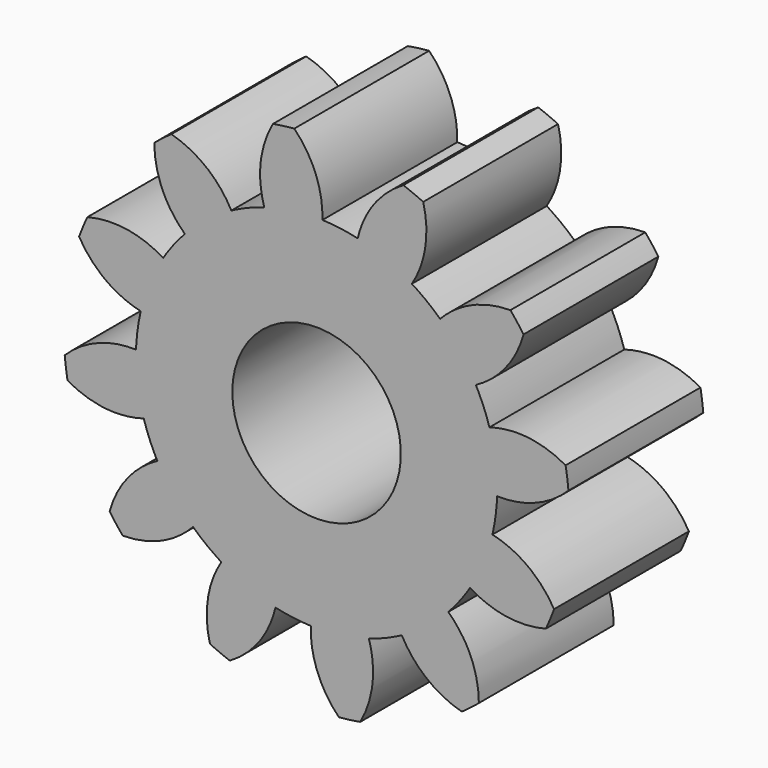
from build123d import *

# Parameters (mm, degrees)
F2_DEPTH = 12.7
F3_COUNT = 12
F3_ANGLE = 330
F5_D     = 25.4


with BuildPart() as f2:
    # F1 (on Front) → F2 (new body, symmetric)
    with BuildSketch(Plane.XZ):
        with BuildLine():
            Line((0, 27.2142857143), (0, 32.6571428571))
            Line((0, 32.6571428571), (-4.1027982168, 31.163846429))
            Line((-4.1027982168, 31.163846429), (-3.5521770883, 26.9814637274))
            ThreePointArc((-3.5521770883, 26.9814637274), (-1.7798994455, 27.1560178396), (0, 27.2142857143))
        make_face()
        with BuildLine():
            Line((-3.5521770883, 26.9814637274), (-4.1027982168, 31.163846429))
            Line((-4.1027982168, 31.163846429), (-8.4908538679, 29.5667247857))
            ThreePointArc((-8.4908538679, 29.5667247857), (-8.2952422965, 27.7884140488), (-7.8836733992, 26.0473614916))
            ThreePointArc((-7.8836733992, 26.0473614916), (-5.7369683492, 26.6027167992), (-3.5521770883, 26.9814637274))
        make_face()
        with BuildLine():
            Line((-4.1027982168, 31.163846429), (-4.2626125059, 32.3777564729))
            ThreePointArc((-4.2626125059, 32.3777564729), (-6.3710925161, 32.0296450143), (-8.4522905301, 31.5443776985))
            ThreePointArc((-8.4522905301, 31.5443776985), (-8.5050911091, 30.5562048457), (-8.4908538679, 29.5667247857))
            Line((-8.4908538679, 29.5667247857), (-4.1027982168, 31.163846429))
        make_face()
        with BuildLine():
            ThreePointArc((-8.4522905301, 31.5443776985), (-6.3710925161, 32.0296450143), (-4.2626125059, 32.3777564729))
            Line((-4.2626125059, 32.3777564729), (-4.2993944212, 32.6571428571))
            Line((-4.2993944212, 32.6571428571), (-8.3117038653, 32.6571428571))
            ThreePointArc((-8.3117038653, 32.6571428571), (-8.3926831774, 32.1021103437), (-8.4522905301, 31.5443776985))
        make_face()
        with BuildLine():
            Line((-4.1027982168, 31.163846429), (0, 32.6571428571))
            ThreePointArc((0, 32.6571428571), (-2.1358793346, 32.5872214075), (-4.2626125059, 32.3777564729))
            Line((-4.2626125059, 32.3777564729), (-4.1027982168, 31.163846429))
        make_face()
        with BuildLine():
            ThreePointArc((-4.2626125059, 32.3777564729), (-2.1358793346, 32.5872214075), (0, 32.6571428571))
            Line((0, 32.6571428571), (-4.2993944212, 32.6571428571))
            Line((-4.2993944212, 32.6571428571), (-4.2626125059, 32.3777564729))
        make_face()
        with BuildLine():
            ThreePointArc((0, 32.6571428571), (-1.3922286837, 35.486786515), (-3.3594239194, 37.9516043262))
            ThreePointArc((-3.3594239194, 37.9516043262), (-4.1671816864, 37.8714219009), (-4.9730479236, 37.7740492183))
            Line((-4.9730479236, 37.7740492183), (-4.2993944212, 32.6571428571))
            Line((-4.2993944212, 32.6571428571), (0, 32.6571428571))
        make_face()
        with BuildLine():
            Line((-4.2993944212, 32.6571428571), (-4.9730479236, 37.7740492183))
            ThreePointArc((-4.9730479236, 37.7740492183), (-5.7766568393, 37.6595304772), (-6.5776436666, 37.5279176587))
            ThreePointArc((-6.5776436666, 37.5279176587), (-7.661923736, 35.1698741183), (-8.3117038653, 32.6571428571))
            Line((-8.3117038653, 32.6571428571), (-4.2993944212, 32.6571428571))
        make_face()
        with BuildLine():
            ThreePointArc((0.8734905136, 27.2002639925), (0.6971989167, 29.9703946199), (0, 32.6571428571))
            Line((0, 32.6571428571), (0, 27.2142857143))
            ThreePointArc((0, 27.2142857143), (0.4368015242, 27.210780058), (0.8734905136, 27.2002639925))
        make_face()
        with BuildLine():
            ThreePointArc((27.2142857143, 0), (23.1138516304, 14.3654867564), (12.0481915595, 24.4020168651))
            ThreePointArc((12.0481915595, 24.4020168651), (6.8095488061, 19.7367686343), (0, 18.0521428571))
            Line((0, 18.0521428571), (0, 0))
            Line((0, 0), (-2.402809942, 18.2511534992))
            ThreePointArc((-2.402809942, 18.2511534992), (-7.8527791982, 20.3429281496), (-12.0481915595, 24.4020168651))
            ThreePointArc((-12.0481915595, 24.4020168651), (-14.3654867564, -23.1138516304), (27.2142857143, 0))
        make_face()
        with BuildLine():
            ThreePointArc((-7.8836733992, 26.0473614916), (-9.9998299945, 25.3104868981), (-12.0481915595, 24.4020168651))
            ThreePointArc((-12.0481915595, 24.4020168651), (-7.8527791982, 20.3429281496), (-2.402809942, 18.2511534992))
            Line((-2.402809942, 18.2511534992), (-3.5521770883, 26.9814637274))
            ThreePointArc((-3.5521770883, 26.9814637274), (-5.7369683492, 26.6027167992), (-7.8836733992, 26.0473614916))
        make_face()
        with BuildLine():
            Line((0, 18.0521428571), (0, 27.2142857143))
            ThreePointArc((0, 27.2142857143), (-1.7798994455, 27.1560178396), (-3.5521770883, 26.9814637274))
            Line((-3.5521770883, 26.9814637274), (-2.402809942, 18.2511534992))
            ThreePointArc((-2.402809942, 18.2511534992), (-1.2055186491, 18.10198055), (0, 18.0521428571))
        make_face()
        with BuildLine():
            Line((0, 0), (0, 18.0521428571))
            ThreePointArc((0, 18.0521428571), (-1.2055186491, 18.10198055), (-2.402809942, 18.2511534992))
            Line((-2.402809942, 18.2511534992), (0, 0))
        make_face()
        with BuildLine():
            ThreePointArc((0.8734905136, 27.2002639925), (0.4368015242, 27.210780058), (0, 27.2142857143))
            Line((0, 27.2142857143), (0, 18.0521428571))
            ThreePointArc((0, 18.0521428571), (6.8095488061, 19.7367686343), (12.0481915595, 24.4020168651))
            ThreePointArc((12.0481915595, 24.4020168651), (6.6105985846, 26.399191906), (0.8734905136, 27.2002639925))
        make_face()
    extrude(amount=F2_DEPTH, both=True)

    # F3: F2 ×12 about axis
    f3_axis = Axis((0, 0, 0), (0, -1, 0))


with BuildPart() as f2_1:
    add(f2.part)
    for i in range(1, F3_COUNT):
        add(f2.part.rotate(f3_axis, i * F3_ANGLE / (F3_COUNT - 1)))

    # F5 (through all)
    with Locations(Plane.XZ.offset(12.7)):
        with Locations((0, 0)):
            Hole(F5_D / 2)


solid = f2_1.part
